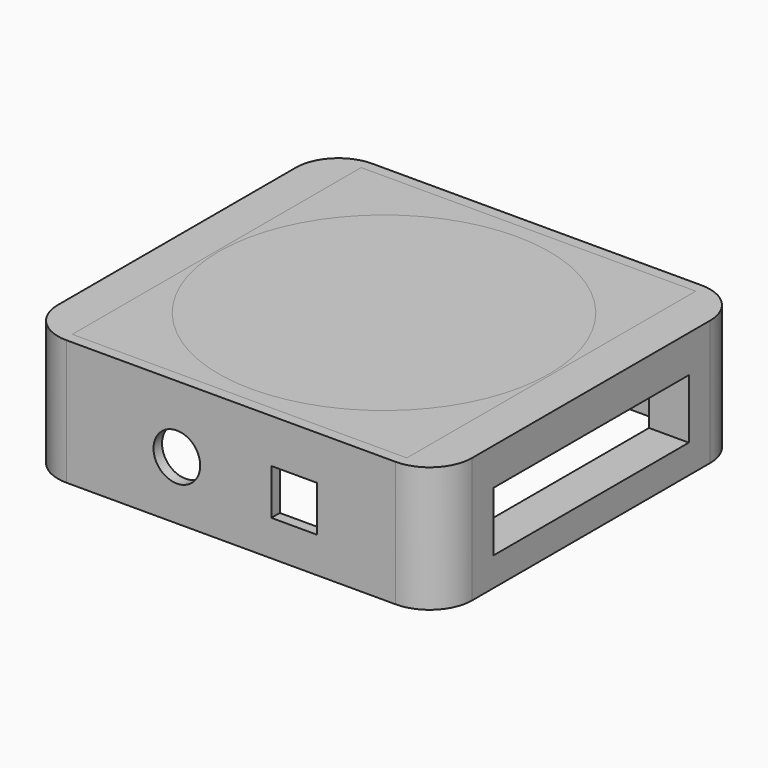
from build123d import *

# Parameters (mm, degrees)
F0_W      = 40.005
F0_H      = 43.18
F0_R      = 19.7783597571
F1_DEPTH  = 5
F2_R      = 19.7783597571
F3_DEPTH  = 5
F4_T      = -2.54
F0_W_2    = 49.53
F0_H_2    = 45.72
F5_DEPTH  = 15
F6_R      = 5.08
F7_W      = 5.47
F7_H      = 5.461
F7_R      = 2.794
F8_DEPTH  = 16.891
F9_W      = 29.21
F9_H      = 7.112
F10_DEPTH = 55.626


with BuildPart() as f1:
    # F0 (on Top) → F1 (new body)
    with BuildSketch(Plane.XY):
        Rectangle(F0_W, F0_H)
        Circle(F0_R, mode=Mode.SUBTRACT)
    extrude(amount=-F1_DEPTH)


with BuildPart() as f3:
    # F2 (on Top) → F3 (new body)
    with BuildSketch(Plane.XY):
        Circle(F2_R)
    extrude(amount=-F3_DEPTH)

    # F4
    f4_openings = [f3.faces().sort_by_distance(p)[0] for p in [
        (0, 0, -5),
    ]]
    offset(amount=F4_T, openings=f4_openings)


with BuildPart() as f5:
    # F0 (on Top) → F5 (new body)
    with BuildSketch(Plane.XY):
        Rectangle(F0_W_2, F0_H_2)
        Rectangle(F0_W, F0_H, mode=Mode.SUBTRACT)
    extrude(amount=-F5_DEPTH)

    # F6
    f6_edges = [f5.edges().sort_by_distance(p)[0] for p in [
        (-24.765, -22.86, -7.5),
        (24.765, -22.86, -7.5),
        (24.765, 22.86, -7.5),
        (-24.765, 22.86, -7.5),
    ]]
    fillet(f6_edges, radius=F6_R)

    # F7 (on face) → F8 (cut)
    with BuildSketch(Plane.XZ.offset(22.86)):
        with Locations((7.5489302855, -8)):
            Rectangle(F7_W, F7_H)
        with Locations((-6.4799310854, -8)):
            Circle(F7_R)
    extrude(amount=-F8_DEPTH, mode=Mode.SUBTRACT)

    # F9 (on face) → F10 (cut)
    with BuildSketch(Plane.YZ.offset(24.765)):
        with Locations((0, -8.002400344)):
            Rectangle(F9_W, F9_H)
    extrude(amount=-F10_DEPTH, mode=Mode.SUBTRACT)


solid = Compound([f1.part, f3.part, f5.part])
